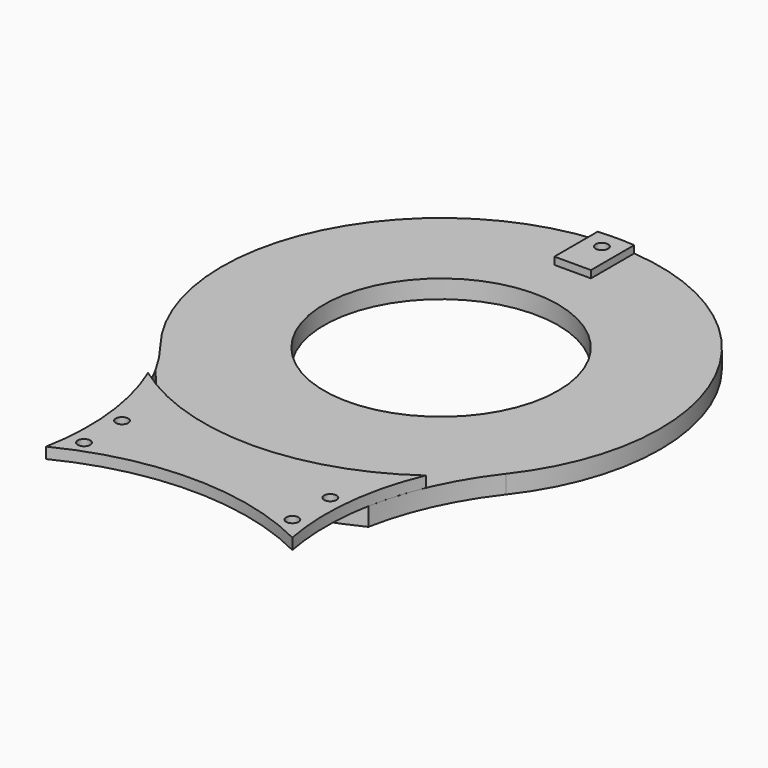
from build123d import *

# Parameters (mm, degrees)
SKETCH_R        = 32
PAD_DEPTH       = 5
PAD001_DEPTH    = 2
SKETCH002_R     = 1.7
POCKET_DEPTH    = 7.001
SKETCH003_R     = 2.95
POCKET001_DEPTH = 3
SKETCH004_R     = 1.7
POCKET002_DEPTH = 7.001
POCKET004_DEPTH = 7.001
SKETCH007_R     = 1.7
PAD002_DEPTH    = 3


with BuildPart() as part:
    # Sketch → Pad (new body)
    with BuildSketch(Plane.XY):
        with BuildLine():
            ThreePointArc((-47.293619, 36.923077), (0, -60), (47.293619, 36.923077))
            ThreePointArc((47.293619, 123.076923), (32.469508, 80), (47.293619, 36.923077))
            ThreePointArc((47.293619, 123.076923), (3.1e-05, 220), (-47.293657, 123.076972))
            ThreePointArc((-47.293619, 36.923077), (-32.469508, 80.000031), (-47.293657, 123.076972))
        make_face()
        Circle(SKETCH_R, mode=Mode.SUBTRACT)
        with Locations((0, 160)):
            Circle(SKETCH_R, mode=Mode.SUBTRACT)
    extrude(amount=PAD_DEPTH)

    # Sketch001 (on Face8 of Pad) → Pad001 (join)
    with BuildSketch(Plane.XY.offset(5)):
        with BuildLine():
            Line((-5, -59.791304), (-5, -45))
            Line((-5, -45), (5, -45))
            Line((5, -45), (5, -59.791304))
            ThreePointArc((-5, -59.791304), (0, -60), (5, -59.791304))
        make_face()
        with BuildLine():
            ThreePointArc((5, 219.791304), (0, 220), (-5, 219.791304))
            Line((-5, 219.791304), (-5, 205))
            Line((-5, 205), (5, 205))
            Line((5, 205), (5, 219.791304))
        make_face()
    extrude(amount=PAD001_DEPTH)

    # Sketch002 (on Face14 of Pad001) → Pocket (cut, through all)
    with BuildSketch(Plane.XY.offset(7)):
        with Locations((0, -55)):
            Circle(SKETCH002_R)
        with Locations((0, 215)):
            Circle(SKETCH002_R)
    extrude(amount=-POCKET_DEPTH, mode=Mode.SUBTRACT)

    # Sketch003 (on Face4 of Pocket) → Pocket001 (cut)
    with BuildSketch(Plane(origin=(0, 0, 0), x_dir=(1, 0, 0), z_dir=(0, 0, -1))):
        with Locations((0, 55)):
            Circle(SKETCH003_R)
        with Locations((0, -215)):
            Circle(SKETCH003_R)
    extrude(amount=-POCKET001_DEPTH, mode=Mode.SUBTRACT)

    # Sketch004 (on Face4 of Pocket001) → Pocket002 (cut, through all)
    with BuildSketch(Plane(origin=(0, 0, 0), x_dir=(1, 0, 0), z_dir=(0, 0, -1))):
        with Locations((28.5, -73.5)):
            Circle(SKETCH004_R)
        with Locations((28.5, -86.5)):
            Circle(SKETCH004_R)
        with Locations((-28.5, -86.5)):
            Circle(SKETCH004_R)
        with Locations((-28.5, -73.5)):
            Circle(SKETCH004_R)
    extrude(amount=-POCKET002_DEPTH, mode=Mode.SUBTRACT)

    # Sketch006 (on Face4 of Pocket002) → Pocket004 (cut, through all)
    with BuildSketch(Plane(origin=(0, 0, 0), x_dir=(1, 0, 0), z_dir=(0, 0, -1))):
        with BuildLine():
            ThreePointArc((65, -122.583426), (0, -85), (-65, -122.583426))
            Line((-65, -122.583426), (-65, 77.416574))
            Line((-65, 77.416574), (65, 77.416574))
            Line((65, 77.416574), (65, -122.583426))
        make_face()
    extrude(amount=-POCKET004_DEPTH, mode=Mode.SUBTRACT)

    # Sketch007 (on Face4 of Pocket004) → Pad002 (join)
    with BuildSketch(Plane.XY.offset(5)):
        with BuildLine():
            ThreePointArc((33.68542, 67.009644), (0, 75), (-33.68542, 67.009644))
            ThreePointArc((-33.68542, 67.009644), (-32.867557, 87.454427), (-37.996513, 107.2623))
            ThreePointArc((-37.996513, 107.2623), (0, 95), (37.996513, 107.2623))
            ThreePointArc((37.996513, 107.2623), (32.867557, 87.454427), (33.68542, 67.009644))
        make_face()
        with Locations((-28.5, 86.5)):
            Circle(SKETCH007_R, mode=Mode.SUBTRACT)
        with Locations((-28.5, 73.5)):
            Circle(SKETCH007_R, mode=Mode.SUBTRACT)
        with Locations((28.5, 73.5)):
            Circle(SKETCH007_R, mode=Mode.SUBTRACT)
        with Locations((28.5, 86.5)):
            Circle(SKETCH007_R, mode=Mode.SUBTRACT)
    extrude(amount=PAD002_DEPTH)


solid = part.part
